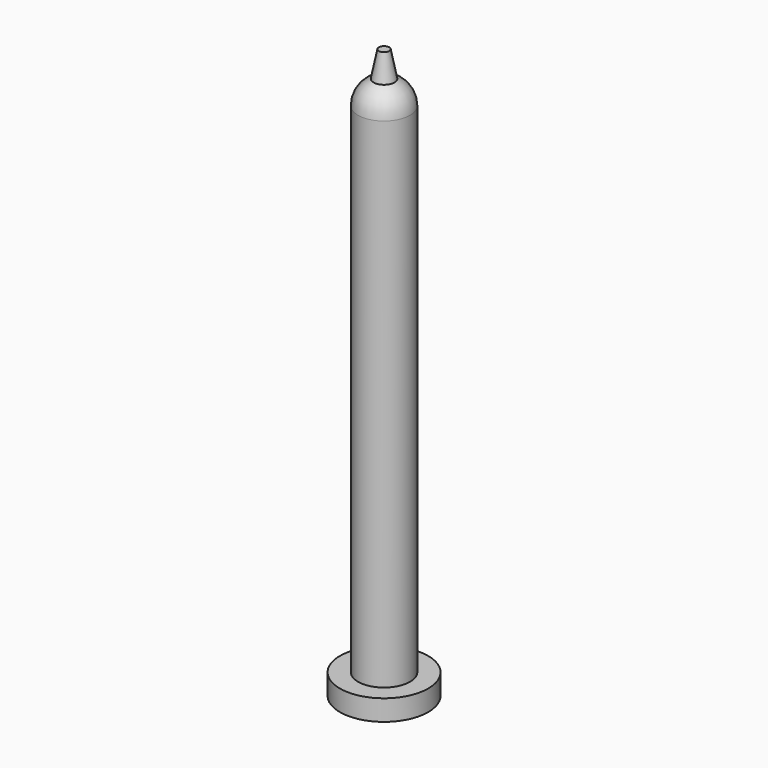
from build123d import *

# Parameters (mm, degrees)
F0_R     = 8.5
F1_DEPTH = 4
F2_R     = 5
F3_DEPTH = 100


with BuildPart() as f1:
    # F0 (on Top) → F1 (new body)
    with BuildSketch(Plane.XY):
        Circle(F0_R)
    extrude(amount=F1_DEPTH)

    # F2 (on Top) → F3 (join)
    with BuildSketch(Plane.XY):
        Circle(F2_R)
    extrude(amount=F3_DEPTH)

    # F4 (on Right) → F5 (revolve)
    with BuildSketch(Plane.YZ):
        with BuildLine():
            Line((0, 104.582576), (0, 100))
            Line((0, 100), (5, 100))
            ThreePointArc((5, 100), (4.1833, 102.738613), (2, 104.582576))
            Line((2, 104.582576), (0, 104.582576))
        make_face()
    revolve(axis=Axis((0, 0, 104.791288), (0, 0, -1)))

    # F4 (on Right) → F6 (revolve)
    with BuildSketch(Plane.YZ):
        with BuildLine():
            ThreePointArc((0, 105), (1.021548, 104.894532), (2, 104.582576))
            Line((2, 104.582576), (1, 109.582576))
            Line((1, 109.582576), (0, 109.582576))
            Line((0, 109.582576), (0, 105))
        make_face()
        with BuildLine():
            Line((0, 105), (0, 104.582576))
            Line((0, 104.582576), (2, 104.582576))
            ThreePointArc((2, 104.582576), (1.021548, 104.894532), (0, 105))
        make_face()
    revolve(axis=Axis((0, 0, 104.791288), (0, 0, -1)))


solid = f1.part
